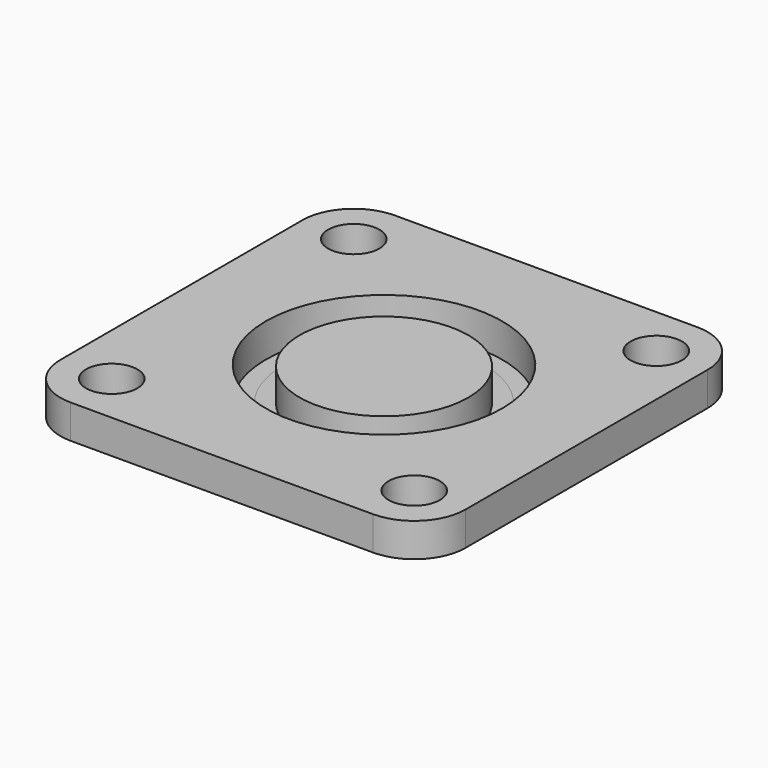
from build123d import *

# Parameters (mm, degrees)
F1_DEPTH  = 3.175
F2_R      = 11.1125
F3_DEPTH  = 6.35
F4_R      = 11.1125
F5_DEPTH  = 3.175
F6_R      = 9.525
F7_DEPTH  = 3.048
F8_R      = 7.9375
F9_DEPTH  = 3.048
F10_R     = 8.763
F11_DEPTH = 3.429
F12_R     = 0.762
F13_SIZE  = 2.286
F14_D     = 4.826


with BuildPart() as f1:
    # F0 (on Top) → F1 (new body)
    with BuildSketch(Plane.XY):
        with BuildLine():
            ThreePointArc((19.05, 14.224), (17.636497326, 17.636497326), (14.224, 19.05))
            Line((14.224, 19.05), (9.398, 19.05))
            Line((9.398, 19.05), (-14.224, 19.05))
            ThreePointArc((-14.224, 19.05), (-17.636497326, 17.636497326), (-19.05, 14.224))
            Line((-19.05, 14.224), (-19.05, 9.398))
            Line((-19.05, 9.398), (-19.05, -14.224))
            ThreePointArc((-19.05, -14.224), (-17.636497326, -17.636497326), (-14.224, -19.05))
            Line((-14.224, -19.05), (-9.398, -19.05))
            Line((-9.398, -19.05), (9.398, -19.05))
            Line((9.398, -19.05), (14.224, -19.05))
            ThreePointArc((14.224, -19.05), (17.636497326, -17.636497326), (19.05, -14.224))
            Line((19.05, -14.224), (19.05, 14.224))
        make_face()
    extrude(amount=F1_DEPTH)

    # F2 (on face) → F3 (join)
    with BuildSketch(Plane.XY.offset(3.175)):
        Circle(F2_R)
    extrude(amount=-F3_DEPTH)

    # F4 (on face) → F5 (cut)
    with BuildSketch(Plane.XY.offset(3.175)):
        Circle(F4_R)
    extrude(amount=-F5_DEPTH, mode=Mode.SUBTRACT)

    # F8 (on face) → F9 (join)
    with BuildSketch(Plane.XY):
        Circle(F8_R)
    extrude(amount=F9_DEPTH)

    # F10 (on face) → F11 (join)
    with BuildSketch(Plane(origin=(0, 0, -3.175), x_dir=(1, 0, 0), z_dir=(0, 0, -1))):
        Circle(F10_R)
    extrude(amount=F11_DEPTH)

    # F12
    f12_edges = [f1.edges().sort_by_distance(p)[0] for p in [
        (-8.763, 0, -6.604),
    ]]
    fillet(f12_edges, radius=F12_R)

    # F13
    f13_edges = [f1.edges().sort_by_distance(p)[0] for p in [
        (-11.1125, 0, -3.175),
    ]]
    chamfer(f13_edges, length=F13_SIZE)

    # F14 (through all)
    with Locations(Plane(origin=(0, 0, 0), x_dir=(1, 0, 0), z_dir=(0, 0, -1))):
        with Locations((14.224, 14.224), (-14.224, 14.224), (-14.224, -14.224), (14.224, -14.224)):
            Hole(F14_D / 2)


with BuildPart() as f7:
    # F6 (on face) → F7 (new body)
    with BuildSketch(Plane(origin=(0, 0, 0), x_dir=(1, 0, 0), z_dir=(0, 0, -1))):
        Circle(F6_R)
    extrude(amount=F7_DEPTH)


solid = Compound([f1.part, f7.part])
